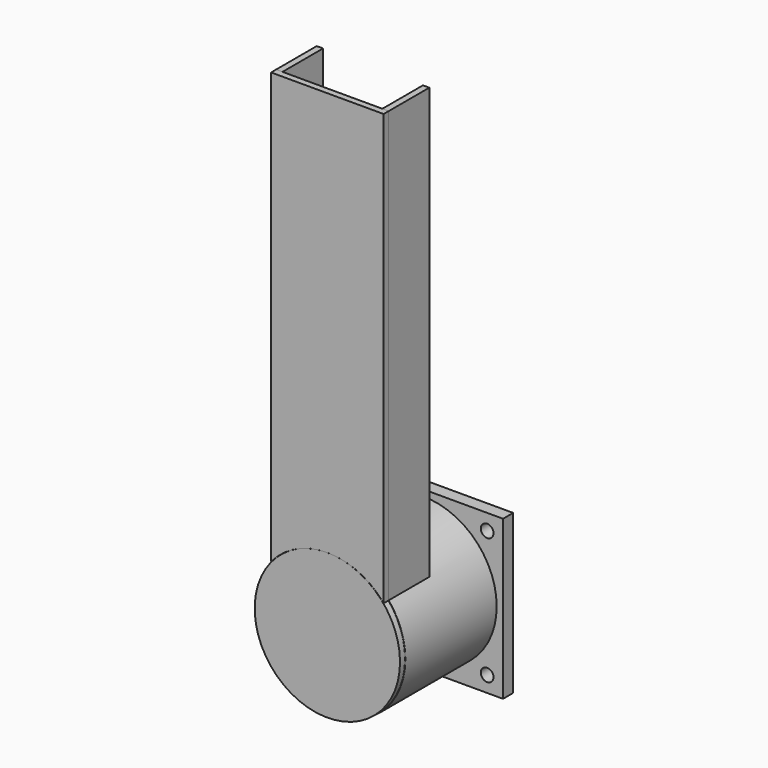
from build123d import *

# Parameters (mm, degrees)
F0_R      = 11.5
F0_R_2    = 10.3
F1_DEPTH  = 20
F0_W      = 25
F0_H      = 25
F0_R_3    = 1
F2_DEPTH  = 2
F4_DEPTH  = 8
F5_R      = 11.457854
F6_DEPTH  = 1
F8_W      = 8
F8_H      = 70
F9_DEPTH  = 1
F7_W      = 8
F7_H      = 70
F10_DEPTH = 1
F12_DEPTH = 1


with BuildPart() as f1:
    # F0 (on Front) → F1 (new body)
    with BuildSketch(Plane.XZ):
        Circle(F0_R)
        Circle(F0_R_2, mode=Mode.SUBTRACT)
    extrude(amount=F1_DEPTH)

    # F0 (on Front) → F2 (join)
    with BuildSketch(Plane.XZ):
        Rectangle(F0_W, F0_H)
        with Locations((-10, -10)):
            Circle(F0_R_3, mode=Mode.SUBTRACT)
        with Locations((10, -10)):
            Circle(F0_R_3, mode=Mode.SUBTRACT)
        with Locations((-10, 10)):
            Circle(F0_R_3, mode=Mode.SUBTRACT)
        Circle(F0_R, mode=Mode.SUBTRACT)
        with Locations((10, 10)):
            Circle(F0_R_3, mode=Mode.SUBTRACT)
    extrude(amount=F2_DEPTH)

    # F3 (on face) → F4 (cut)
    with BuildSketch(Plane.XZ.offset(20)):
        with BuildLine():
            ThreePointArc((8.875, 7.313301), (0, 11.5), (-8.875, 7.313301))
            Line((-8.875, 7.313301), (-8.875, 5.227272))
            ThreePointArc((-8.875, 5.227272), (0, 10.3), (8.875, 5.227272))
            Line((8.875, 5.227272), (8.875, 7.313301))
        make_face()
    extrude(amount=-F4_DEPTH, mode=Mode.SUBTRACT)

    # F5 (on face) → F6 (join)
    with BuildSketch(Plane.XZ.offset(20)):
        Circle(F5_R)
    extrude(amount=F6_DEPTH)

    # F8 (on face) → F9 (join)
    with BuildSketch(Plane(origin=(8.875, 0, 0), x_dir=(0, -1, 0), z_dir=(-1, 0, 0))):
        with Locations((16, 40.227272)):
            Rectangle(F8_W, F8_H)
    extrude(amount=F9_DEPTH)

    # F7 (on face) → F10 (join)
    with BuildSketch(Plane.YZ.offset(-8.875)):
        with Locations((-16, 40.227272)):
            Rectangle(F7_W, F7_H)
    extrude(amount=F10_DEPTH)


with BuildPart() as f12:
    # F11 (on face) → F12 (new body)
    with BuildSketch(Plane.XZ.offset(20)):
        with BuildLine():
            Line((8.875, 75.227272), (-8.875, 75.227272))
            Line((-8.875, 75.227272), (-8.875, 7.313301))
            ThreePointArc((-8.875, 7.313301), (0, 11.458159), (8.875, 7.313301))
            Line((8.875, 7.313301), (8.875, 75.227272))
        make_face()
    extrude(amount=F12_DEPTH)


solid = Compound([f1.part, f12.part])
